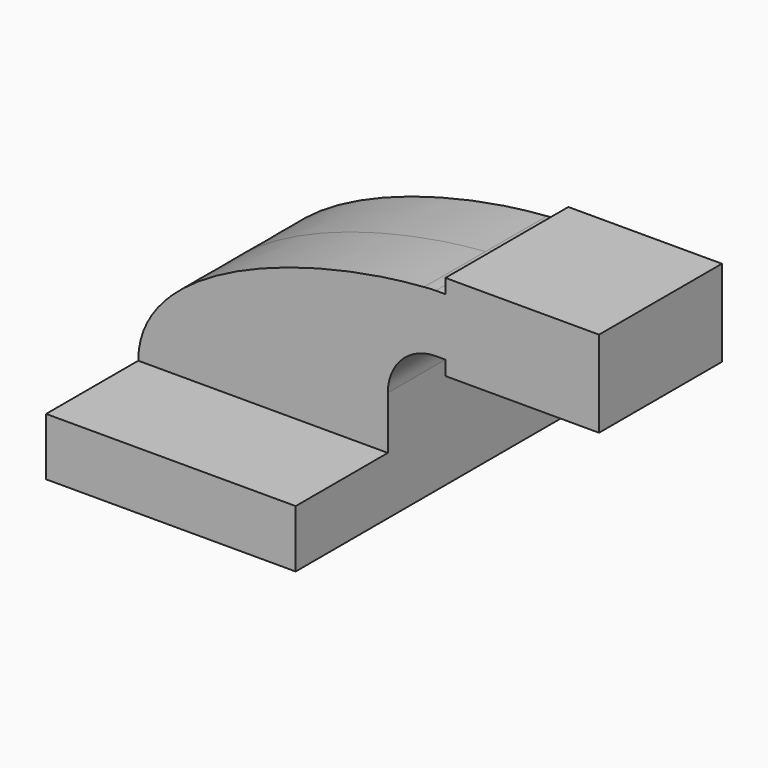
from build123d import *

# Parameters (mm, degrees)
F1_DEPTH = 63.5
F2_DEPTH = 25.4


with BuildPart() as f1:
    # F0 (on Front) → F1 (new body, symmetric)
    with BuildSketch(Plane.XZ):
        Polygon((22.225, 9.525), (-41.275, 9.525), (-41.275, -9.525), (41.275, -9.525), (41.275, 9.525), align=None)
    extrude(amount=F1_DEPTH, both=True)

    # F0 (on Front) → F2 (join, symmetric)
    with BuildSketch(Plane.XZ):
        with BuildLine():
            add(Edge.make_bspline(
                [(-41.275, 9.525), (-41.26663, 40.945811), (15.745991, 59.091496), (53.242845, 61.70596)],
                knots=[0, 0, 0, 0, 107.690544, 107.690544, 107.690544, 107.690544], degree=3))
            Line((-41.275, 9.525), (22.225, 9.525))
            Line((22.225, 9.525), (22.225, 27.0002))
            ThreePointArc((22.225, 27.0002), (31.109522, 50.273556), (53.242845, 61.70596))
        make_face()
        Polygon((22.225, 9.525), (-41.275, 9.525), (-41.275, -9.525), (41.275, -9.525), (41.275, 9.525), align=None)
        with BuildLine():
            Line((22.225, 27.0002), (22.225, 9.525))
            Line((22.225, 9.525), (41.275, 9.525))
            Line((41.275, 9.525), (41.275, 27.0002))
            ThreePointArc((41.275, 27.0002), (45.92468, 38.22552), (57.15, 42.8752))
            Line((57.15, 42.8752), (60.325, 42.8752))
            Line((60.325, 42.8752), (60.325, 61.9252))
            Line((60.325, 61.9252), (57.15, 61.9252))
            add(Edge.make_bspline(
                [(53.242845, 61.70596), (54.570842, 61.798554), (55.87436, 61.871668), (57.15, 61.9252)],
                knots=[107.690544, 107.690544, 107.690544, 107.690544, 111.504536, 111.504536, 111.504536, 111.504536], degree=3))
            ThreePointArc((53.242845, 61.70596), (31.109522, 50.273556), (22.225, 27.0002))
        make_face()
        with BuildLine():
            ThreePointArc((57.15, 61.9252), (55.193349, 61.870347), (53.242845, 61.70596))
            add(Edge.make_bspline(
                [(53.242845, 61.70596), (54.570842, 61.798554), (55.87436, 61.871668), (57.15, 61.9252)],
                knots=[107.690544, 107.690544, 107.690544, 107.690544, 111.504536, 111.504536, 111.504536, 111.504536], degree=3))
        make_face()
        Polygon((60.325, 66.675), (60.325, 61.9252), (60.325, 42.8752), (60.325, 38.1), (111.125, 38.1), (111.125, 66.675), align=None)
    extrude(amount=F2_DEPTH, both=True)


solid = f1.part
